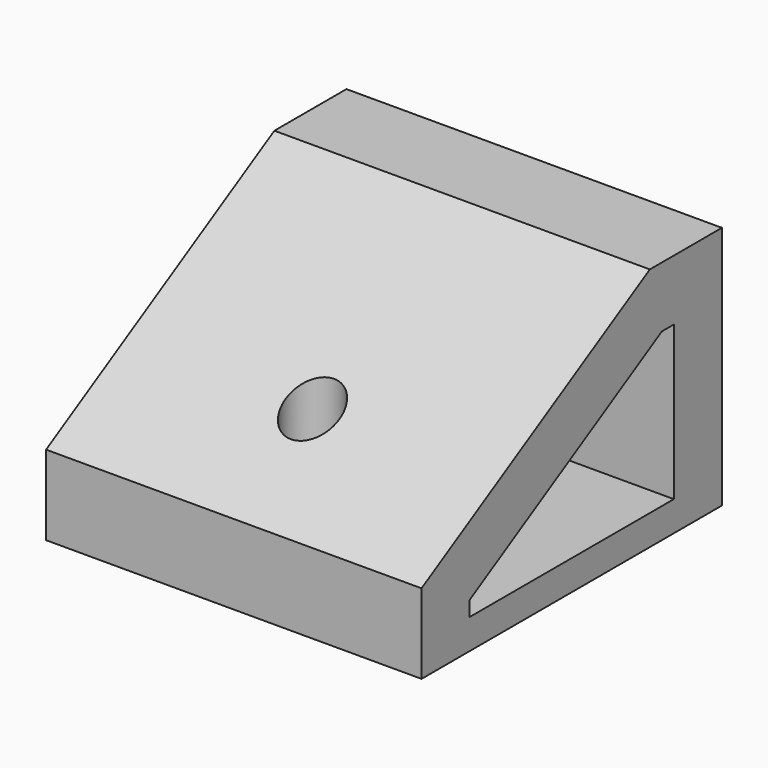
from build123d import *

# Parameters (mm, degrees)
F0_W     = 25
F0_H     = 25
F1_DEPTH = 2
F3_DEPTH = 25
F4_W     = 5
F4_H     = 2.2
F4_R     = 3
F5_DEPTH = 2
F6_R     = 1.8
F7_DEPTH = 18.280056
F9_DEPTH = 4


with BuildPart() as f1:
    # F0 (on Top) → F1 (new body)
    with BuildSketch(Plane.XY):
        Rectangle(F0_W, F0_H)
    extrude(amount=F1_DEPTH)

    # F2 (on face) → F3 (join, through all)
    with BuildSketch(Plane(origin=(-12.5, 0, 0), x_dir=(0, -1, 0), z_dir=(-1, 0, 0))):
        Polygon((-12.5, 16.279056), (-12.5, 2), (-8.5, 2), (-8.5, 12.237604), (-7.5, 12.237604), (8.5, 3), (8.5, 2), (12.5, 2), (12.5, 5.309401), (-6.5, 16.279056), align=None)
    extrude(amount=-F3_DEPTH)

    # F4 (on face) → F5 (join)
    with BuildSketch(Plane(origin=(0, 0, 0), x_dir=(1, 0, 0), z_dir=(0, 0, -1))):
        with Locations((0, -8.9)):
            Rectangle(F4_W, F4_H)
        with Locations((0, 5.95)):
            Circle(F4_R)
    extrude(amount=F5_DEPTH)

    # F6 (on face) → F7 (cut, through all)
    with BuildSketch(Plane(origin=(0, 0, -2), x_dir=(1, 0, 0), z_dir=(0, 0, -1))):
        with Locations((0, 5.95)):
            Circle(F6_R)
    extrude(amount=-F7_DEPTH, mode=Mode.SUBTRACT)

    # F8 (on face) → F9 (cut, through all)
    with BuildSketch(Plane(origin=(0, 12.5, 0), x_dir=(-1, 0, 0), z_dir=(0, 1, 0))):
        Polygon((2.375, 4.025907), (4.75, 8.139528), (2.375, 12.253149), (-2.375, 12.253149), (-4.75, 8.139528), (-2.375, 4.025907), align=None)
    extrude(amount=-F9_DEPTH, mode=Mode.SUBTRACT)


solid = f1.part
